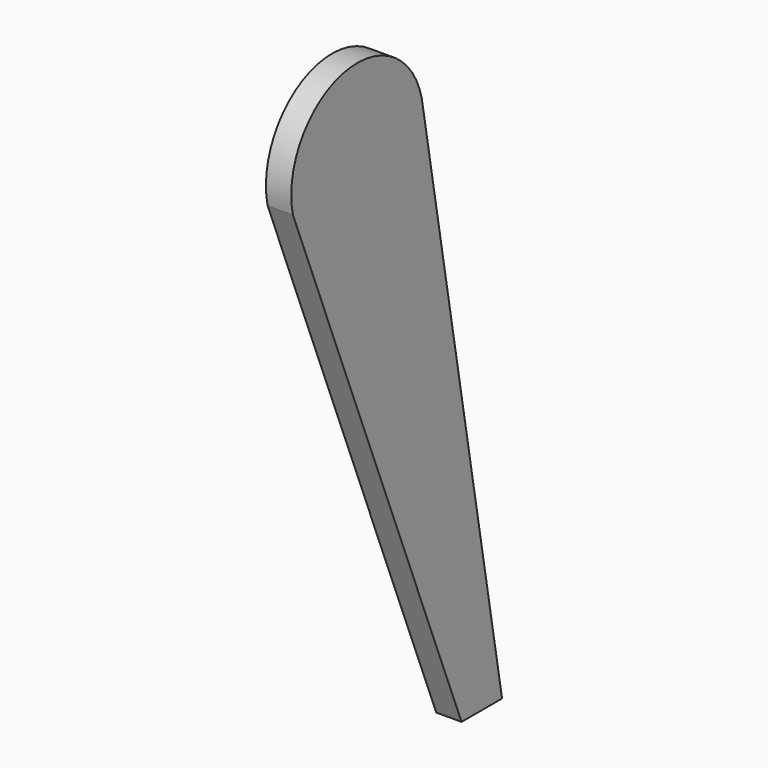
from build123d import *

# Parameters (mm, degrees)
F2_DEPTH = 2


with BuildPart() as f2:
    # F1 (on Right) → F2 (new body)
    with BuildSketch(Plane.YZ):
        with BuildLine():
            Line((33.816349, -46), (25.891696, -1.057059))
            ThreePointArc((25.891696, -1.057059), (18.059685, 3.832011), (13.170616, -4))
            Line((13.170616, -4), (29.816349, -46))
            Line((29.816349, -46), (33.816349, -46))
        make_face()
    extrude(amount=F2_DEPTH)


solid = f2.part
